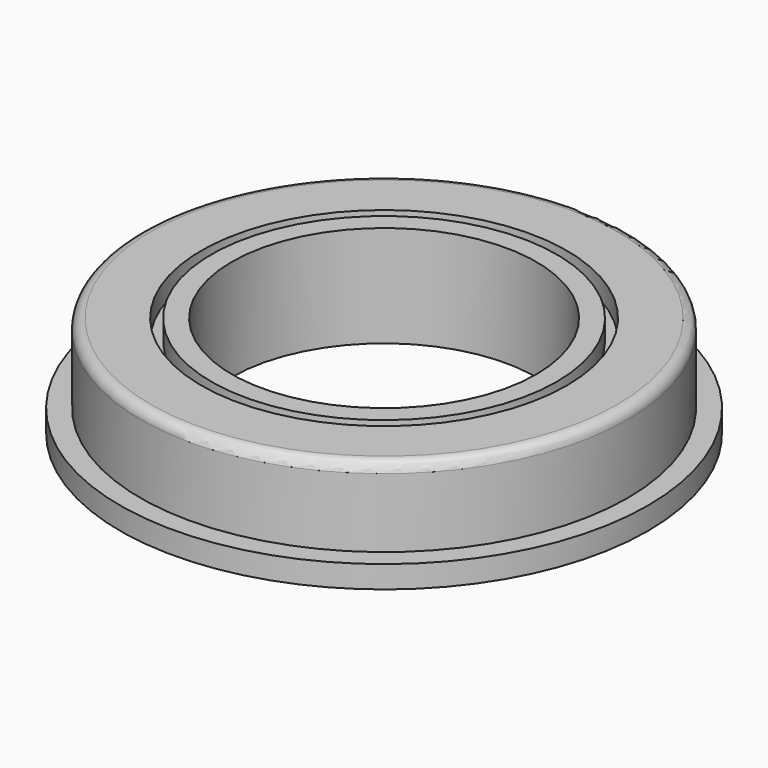
from build123d import *

# Parameters (mm, degrees)
F0_R     = 12
F0_R_2   = 7.5
F1_DEPTH = 2.5
F2_R     = 0.5
F3_R     = 13
F3_R_2   = 10
F4_DEPTH = 1.1
F5_R     = 9
F5_R_2   = 8.5
F6_DEPTH = 1
F7_R     = 9
F7_R_2   = 8.5
F8_DEPTH = 1


with BuildPart() as f1:
    # F0 (on Top) → F1 (new body, symmetric)
    with BuildSketch(Plane.XY):
        Circle(F0_R)
        Circle(F0_R_2, mode=Mode.SUBTRACT)
    extrude(amount=F1_DEPTH, both=True)

    # F2
    f2_edges = [f1.edges().sort_by_distance(p)[0] for p in [
        (-12, 0, 2.5),
    ]]
    fillet(f2_edges, radius=F2_R)

    # F3 (on face) → F4 (join)
    with BuildSketch(Plane(origin=(0, 0, -2.5), x_dir=(1, 0, 0), z_dir=(0, 0, -1))):
        Circle(F3_R)
        Circle(F3_R_2, mode=Mode.SUBTRACT)
    extrude(amount=-F4_DEPTH)

    # F5 (on face) → F6 (cut)
    with BuildSketch(Plane(origin=(0, 0, -2.5), x_dir=(1, 0, 0), z_dir=(0, 0, -1))):
        Circle(F5_R)
        Circle(F5_R_2, mode=Mode.SUBTRACT)
    extrude(amount=-F6_DEPTH, mode=Mode.SUBTRACT)

    # F7 (on face) → F8 (cut)
    with BuildSketch(Plane.XY.offset(2.5)):
        Circle(F7_R)
        Circle(F7_R_2, mode=Mode.SUBTRACT)
    extrude(amount=-F8_DEPTH, mode=Mode.SUBTRACT)


solid = f1.part
